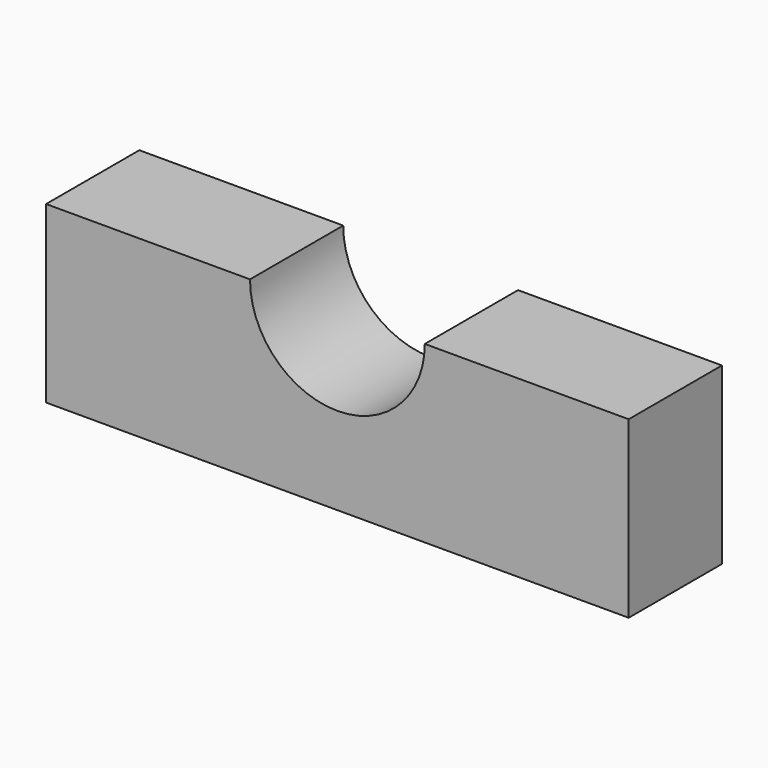
from build123d import *

# Parameters (mm, degrees)
F0_W     = 40
F0_H     = 60
F1_DEPTH = 200
F3_D     = 60


with BuildPart() as f1:
    # F0 (on Right) → F1 (new body)
    with BuildSketch(Plane.YZ):
        with Locations((20, 30)):
            Rectangle(F0_W, F0_H)
    extrude(amount=F1_DEPTH)

    # F3 (through all)
    with Locations(Plane.XZ):
        with Locations((100, 60)):
            Hole(F3_D / 2)


solid = f1.part
